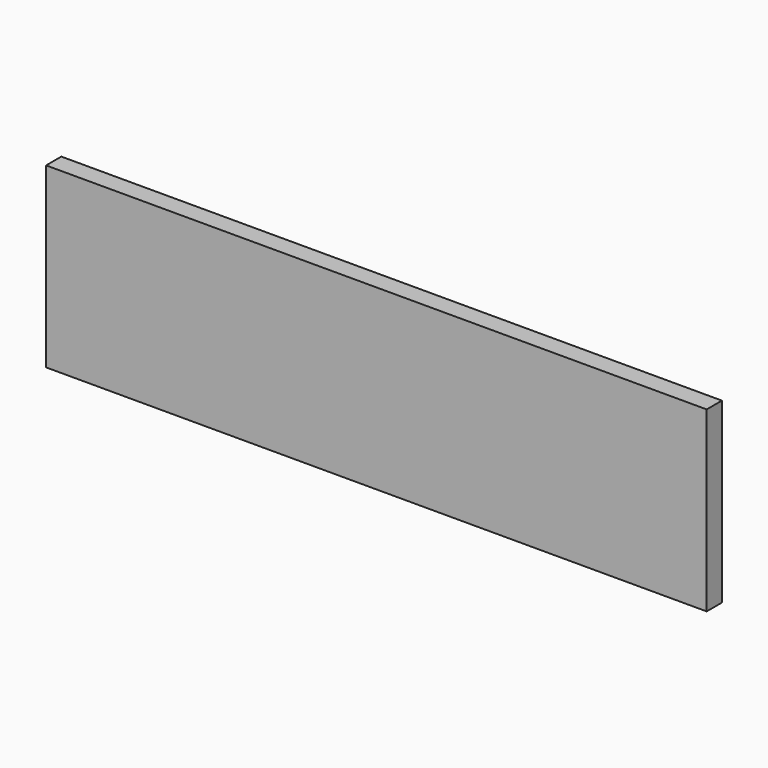
from build123d import *

# Parameters (mm, degrees)
F0_W     = 660.4
F0_H     = 44.45
F1_DEPTH = 19.05


with BuildPart() as f1:
    # F0 (on Front) → F1 (new body)
    with BuildSketch(Plane.XZ):
        with Locations((330.2, 155.575)):
            Rectangle(F0_W, F0_H)
        with Locations((330.2, 111.125)):
            Rectangle(F0_W, F0_H)
        with Locations((330.2, 66.675)):
            Rectangle(F0_W, F0_H)
        with Locations((330.2, 22.225)):
            Rectangle(F0_W, F0_H)
    extrude(amount=-F1_DEPTH)


solid = f1.part
